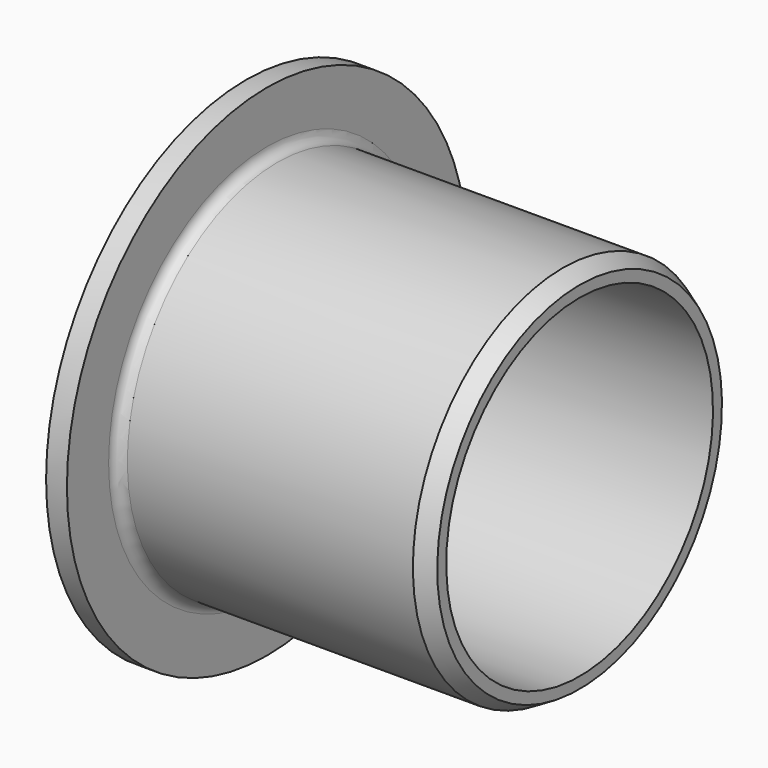
from build123d import *

# Parameters (mm, degrees)
F2_SIZE2 = 0.4618802154
F2_SIZE  = 0.8
F3_R     = 0.5


with BuildPart() as f1:
    # F0 (on Front) → F1 (revolve)
    with BuildSketch(Plane.XZ):
        Polygon((0, 12), (0, 8), (1, 8), (16, 8), (16, 9), (1, 9), (1, 12), align=None)
    revolve(axis=Axis((8, 0, 0), (1, 0, 0)))

    # F2
    f2_edges = [f1.edges().sort_by_distance(p)[0] for p in [
        (16, 0, -9),
    ]]
    f2_side = f1.faces().sort_by_distance((8.5, 0, -9))[0]
    chamfer(f2_edges, length=F2_SIZE, length2=F2_SIZE2, reference=f2_side)

    # F3
    f3_edges = [f1.edges().sort_by_distance(p)[0] for p in [
        (1, 0, -9),
    ]]
    fillet(f3_edges, radius=F3_R)


solid = f1.part
